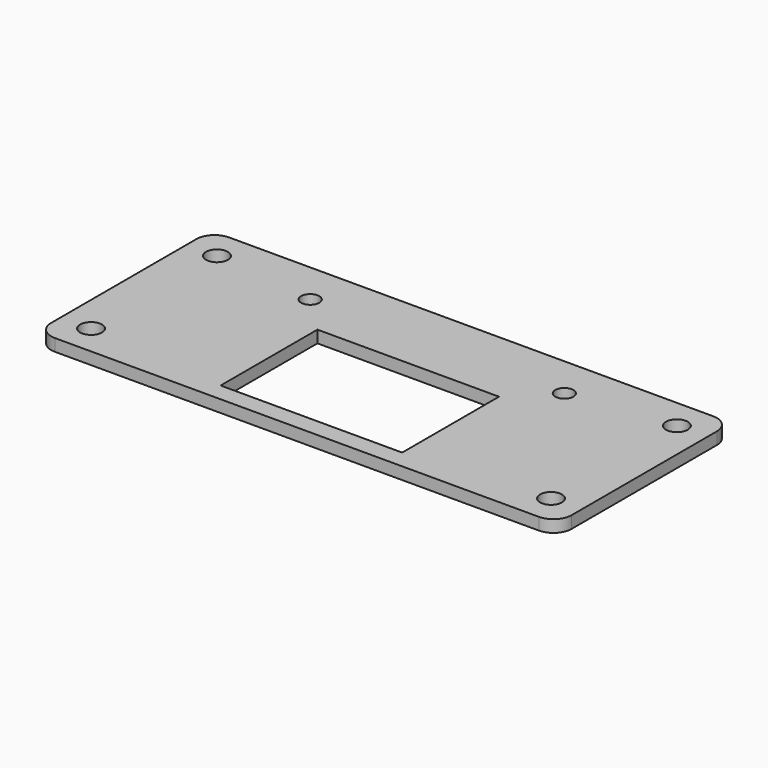
from build123d import *

# Parameters (mm, degrees)
CYLINDER052_R       = 1.5
CYLINDER052_DEPTH   = 20
ARRAY001023_X_COUNT = 2
ARRAY001023_X_PITCH = 42
CYLINDER056_R       = 1.8
CYLINDER056_DEPTH   = 12
ARRAY001028_X_COUNT = 2
ARRAY001028_X_PITCH = 76
ARRAY001028_Y_COUNT = 2
ARRAY001028_Y_PITCH = 26
BOX024_W            = 30
BOX024_H            = 20
BOX024_DEPTH        = 10
BOX023_W            = 86
BOX023_H            = 36
BOX023_DEPTH        = 2
FILLET012_R         = 3
ARRAY001027_X_COUNT = 2
ARRAY001027_X_PITCH = 42


with BuildPart() as obj1:
    # Cylinder052 → Cylinder052 (new body)
    with BuildSketch(Plane(origin=(22, 29, -5), x_dir=(1, 0, 0), z_dir=(0, 0, 1))):
        Circle(CYLINDER052_R)
    extrude(amount=CYLINDER052_DEPTH)

    # Array001023 X: obj1 ×2


with BuildPart() as obj1_1:
    add(obj1.part)
    with Locations(*[(i * ARRAY001023_X_PITCH, 0, 0) for i in range(1, ARRAY001023_X_COUNT)]):
        add(obj1.part)


with BuildPart() as obj2:
    # Cylinder056 → Cylinder056 (new body)
    with BuildSketch(Plane(origin=(5, 5, 0), x_dir=(1, 0, 0), z_dir=(0, 0, 1))):
        Circle(CYLINDER056_R)
    extrude(amount=CYLINDER056_DEPTH)

    # Array001028 X: obj2_2


with BuildPart() as obj2_1:
    add(obj2.part)
    with Locations(*[(i * ARRAY001028_X_PITCH, 0, 0) for i in range(1, ARRAY001028_X_COUNT)]):
        add(obj2.part)

    # Array001028 Y: obj2_2


with BuildPart() as obj2_2:
    add(obj2_1.part)
    with Locations(*[(0, i * ARRAY001028_Y_PITCH, 0) for i in range(1, ARRAY001028_Y_COUNT)]):
        add(obj2_1.part)


with BuildPart() as obj3:
    # Box024 → Box024 (new body)
    with BuildSketch(Plane(origin=(28, 3, -5), x_dir=(1, 0, 0), z_dir=(0, 0, 1))):
        with Locations((15, 10)):
            Rectangle(BOX024_W, BOX024_H)
    extrude(amount=BOX024_DEPTH)

    # Fusion034: union obj1, obj2
    add(obj1_1.part)
    add(obj2_2.part)


with BuildPart() as obj4:
    # Box023 → Box023 (new body)
    with BuildSketch(Plane.XY):
        with Locations((43, 18)):
            Rectangle(BOX023_W, BOX023_H)
    extrude(amount=BOX023_DEPTH)

    # Fillet012
    fillet012_edges = [obj4.edges().sort_by_distance(p)[0] for p in [
        (0, 0, 1),
        (0, 36, 1),
        (86, 0, 1),
        (86, 36, 1),
    ]]
    fillet(fillet012_edges, radius=FILLET012_R)


with BuildPart() as obj5:
    # Cone003 → Cone003 (revolve)
    with BuildSketch(Plane(origin=(22, 29, -2), x_dir=(1, 0, 0), z_dir=(0, -1, 0))):
        Polygon((0, 0), (3.5, 0), (5, 3), (0, 3), align=None)
    revolve(axis=Axis((22, 29, -2), (0, 0, 1)))

    # Array001027 X: obj5_2


with BuildPart() as obj5_1:
    add(obj5.part)
    with Locations(*[(i * ARRAY001027_X_PITCH, 0, 0) for i in range(1, ARRAY001027_X_COUNT)]):
        add(obj5.part)

    # Fusion038: union obj4
    add(obj4.part)

    # Cut021: cut obj3
    add(obj3.part, mode=Mode.SUBTRACT)


with BuildPart() as obj5_2:
    # Cut021 placement: moved
    add(obj5_1.part.moved(Location((0, 0, 12))))


solid = obj5_2.part
